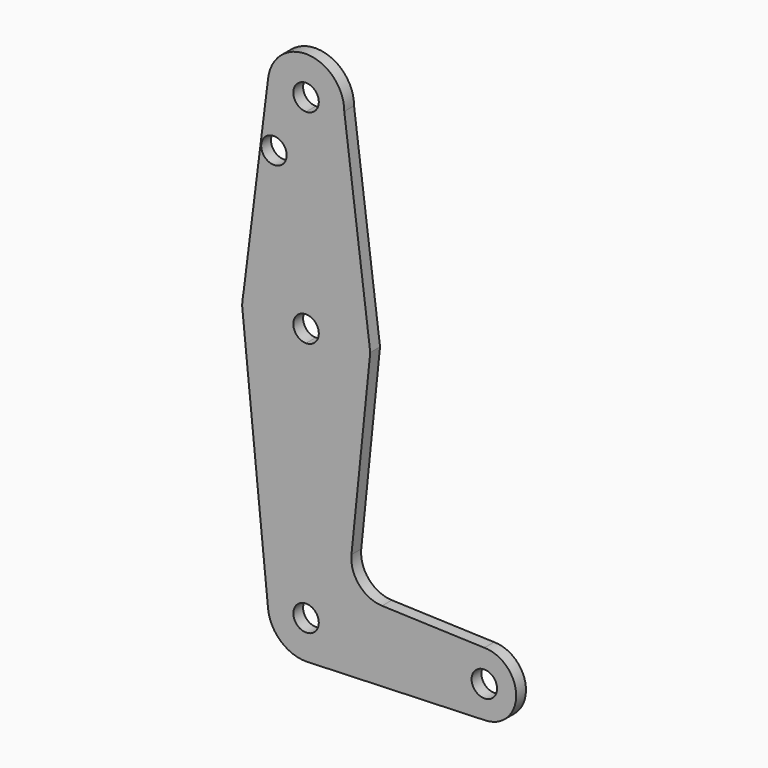
from build123d import *

# Parameters (mm, degrees)
F0_R     = 3.175
F1_DEPTH = 3.048


with BuildPart() as f1:
    # F0 (on Front) → F1 (new body)
    with BuildSketch(Plane.XZ):
        with BuildLine():
            ThreePointArc((0, 41.275), (6.7351920908, 44.0648079092), (9.525, 50.8))
            ThreePointArc((9.525, 50.8), (0.5923857961, 60.3065611063), (-9.4513158149, 51.9824780619))
            ThreePointArc((-9.4513158149, 51.9824780619), (-7.1410338376, 44.4967261895), (0, 41.275))
        make_face()
        with BuildLine():
            ThreePointArc((3.175, 50.8), (2.2450640303, 48.5549359697), (0, 47.625))
            ThreePointArc((0, 47.625), (-2.2450640303, 53.0450640303), (3.175, 50.8))
        make_face(mode=Mode.SUBTRACT)
        with BuildLine():
            Line((15.7474568668, 2.0082896276), (9.525, 50.8))
            ThreePointArc((9.525, 50.8), (6.7351920908, 44.0648079092), (0, 41.275))
            Line((0, 41.275), (0, 15.875))
            ThreePointArc((0, 15.875), (10.4912827424, 11.9142188757), (15.7474568668, 2.0082896276))
        make_face()
        with BuildLine():
            ThreePointArc((0, 41.275), (-7.1410338376, 44.4967261895), (-9.4513158149, 51.9824780619))
            Line((-9.4513158149, 51.9824780619), (-15.5633655213, 3.1300604869))
            ThreePointArc((-15.5633655213, 3.1300604869), (-10.0579797865, 12.2822093947), (0, 15.875))
            Line((0, 15.875), (0, 41.275))
        make_face()
        with Locations((-8.0100987107, 36.5252)):
            Circle(F0_R, mode=Mode.SUBTRACT)
        with BuildLine():
            Line((16.0035761028, 0), (15.7474568668, 2.0082896276))
            ThreePointArc((15.7474568668, 2.0082896276), (15.8430821301, 1.0061677891), (15.875, 0))
            ThreePointArc((15.875, 0), (11.2253201513, -11.2253201513), (0, -15.875))
            Line((0, -15.875), (0, -53.975))
            ThreePointArc((0, -53.975), (6.7351920908, -56.7648079092), (9.525, -63.5))
            Line((9.525, -63.5), (36.5125, -63.5))
            ThreePointArc((36.5125, -63.5), (38.8373399243, -57.8873399243), (44.45, -55.5625))
            Line((44.45, -55.5625), (18.946067877, -54.6516452813))
            ThreePointArc((18.946067877, -54.6516452813), (13.2356131344, -51.9290706185), (11.3206795075, -45.8995818038))
            Line((11.3206795075, -45.8995818038), (16.0035761028, 0))
        make_face()
        with BuildLine():
            ThreePointArc((15.875, 0), (15.8430821301, 1.0061677891), (15.7474568668, 2.0082896276))
            ThreePointArc((15.7474568668, 2.0082896276), (10.4912827424, 11.9142188757), (0, 15.875))
            Line((0, 15.875), (0, 3.175))
            ThreePointArc((0, 3.175), (2.2450640303, 2.2450640303), (3.175, 0))
            ThreePointArc((3.175, 0), (2.2450640303, -2.2450640303), (0, -3.175))
            Line((0, -3.175), (0, -15.875))
            ThreePointArc((0, -15.875), (11.2253201513, -11.2253201513), (15.875, 0))
        make_face()
        with BuildLine():
            Line((-15.8547921075, 0.8007447964), (-15.5633655213, 3.1300604869))
            ThreePointArc((-15.5633655213, 3.1300604869), (-15.7521930249, 1.9707967698), (-15.8547921075, 0.8007447964))
        make_face()
        with BuildLine():
            ThreePointArc((0, 15.875), (-10.0579797865, 12.2822093947), (-15.5633655213, 3.1300604869))
            Line((-15.5633655213, 3.1300604869), (-15.8547921075, 0.8007447964))
            ThreePointArc((-15.8547921075, 0.8007447964), (-15.8700976075, -0.3944957893), (-15.7954255911, -1.5874997315))
            ThreePointArc((-15.7954255911, -1.5874997315), (-10.6492738429, -11.7732150077), (0, -15.875))
            Line((0, -15.875), (0, -3.175))
            ThreePointArc((0, -3.175), (-3.175, 0), (0, 3.175))
            Line((0, 3.175), (0, 15.875))
        make_face()
        with BuildLine():
            ThreePointArc((-15.7954255911, -1.5874997315), (-15.8700976075, -0.3944957893), (-15.8547921075, 0.8007447964))
            Line((-15.8547921075, 0.8007447964), (-15.9549753172, 0))
            Line((-15.9549753172, 0), (-15.7954255911, -1.5874997315))
        make_face()
        with BuildLine():
            Line((0, -53.975), (0, -15.875))
            ThreePointArc((0, -15.875), (-10.6492738429, -11.7732150077), (-15.7954255911, -1.5874997315))
            Line((-15.7954255911, -1.5874997315), (-9.4772553384, -64.4525))
            ThreePointArc((-9.4772553384, -64.4525), (-7.063929059, -57.1104357543), (0, -53.975))
        make_face()
        with BuildLine():
            Line((0, -60.325), (0, -53.975))
            ThreePointArc((0, -53.975), (-7.063929059, -57.1104357543), (-9.4772553384, -64.4525))
            ThreePointArc((-9.4772553384, -64.4525), (-6.3895642457, -70.563929059), (0, -73.025))
            Line((0, -73.025), (0.6773435479, -73.000885786))
            ThreePointArc((0.6773435479, -73.000885786), (6.9705567315, -69.9912990883), (9.525, -63.5))
            Line((9.525, -63.5), (3.175, -63.5))
            ThreePointArc((3.175, -63.5), (-2.2450640303, -65.7450640303), (0, -60.325))
        make_face()
        with BuildLine():
            Line((36.5125, -63.5), (9.525, -63.5))
            ThreePointArc((9.525, -63.5), (6.9705567315, -69.9912990883), (0.6773435479, -73.000885786))
            Line((0.6773435479, -73.000885786), (44.7324052746, -71.4324746146))
            ThreePointArc((44.7324052746, -71.4324746146), (38.9380895153, -69.2116327839), (36.5125, -63.5))
        make_face()
        with BuildLine():
            ThreePointArc((52.3875, -63.5), (50.0626600757, -57.8873399243), (44.45, -55.5625))
            ThreePointArc((44.45, -55.5625), (38.8373399243, -57.8873399243), (36.5125, -63.5))
            ThreePointArc((36.5125, -63.5), (38.9380895153, -69.2116327839), (44.7324052746, -71.4324746146))
            ThreePointArc((44.7324052746, -71.4324746146), (50.1616327839, -69.0119104847), (52.3875, -63.5))
        make_face()
        with BuildLine():
            ThreePointArc((47.625, -63.5), (44.45, -66.675), (41.275, -63.5))
            ThreePointArc((41.275, -63.5), (44.45, -60.325), (47.625, -63.5))
        make_face(mode=Mode.SUBTRACT)
        with BuildLine():
            Line((0.6773435479, -73.000885786), (0, -73.025))
            ThreePointArc((0, -73.025), (0.3388863295, -73.0189695375), (0.6773435479, -73.000885786))
        make_face()
        with BuildLine():
            ThreePointArc((9.525, -63.5), (6.7351920908, -56.7648079092), (0, -53.975))
            Line((0, -53.975), (0, -60.325))
            ThreePointArc((0, -60.325), (2.2450640303, -61.2549359697), (3.175, -63.5))
            Line((3.175, -63.5), (9.525, -63.5))
        make_face()
    extrude(amount=F1_DEPTH)


solid = f1.part
